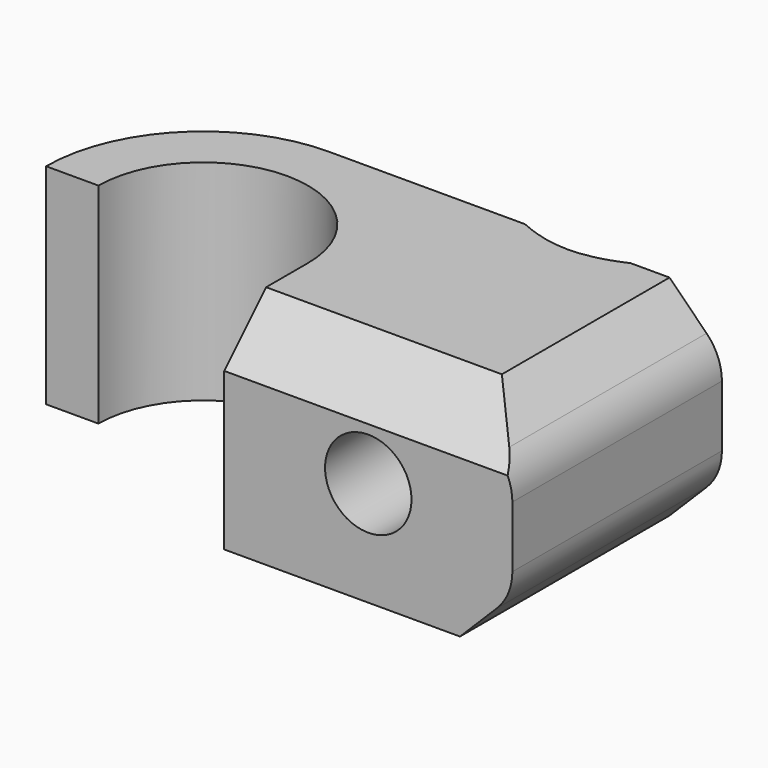
from build123d import *

# Parameters (mm, degrees)
F1_DEPTH       = 4
F3_D           = 3.3
F3_CSINK_D     = 8.96
F3_CSINK_ANGLE = 90
F4_SIZE        = 2
F5_R           = 2
F6_SIZE        = 2


with BuildPart() as f1:
    # F0 (on Top) → F1 (new body, symmetric)
    with BuildSketch(Plane.XY):
        with BuildLine():
            ThreePointArc((-4, 0), (0, 4), (4, 0))
            Line((4, 0), (4, -4))
            Line((4, -4), (15, -4))
            Line((15, -4), (15, 6))
            Line((15, 6), (0, 6))
            ThreePointArc((0, 6), (-4.2426406871, 4.2426406871), (-6, 0))
            Line((-6, 0), (-4, 0))
        make_face()
    extrude(amount=F1_DEPTH, both=True)

    # F3 (through all)
    with Locations(Plane(origin=(0, 6, 0), x_dir=(-1, 0, 0), z_dir=(0, 1, 0))):
        with Locations((-9.5, 0)):
            CounterSinkHole(F3_D / 2, F3_CSINK_D / 2, counter_sink_angle=F3_CSINK_ANGLE)

    # F4
    f4_edges = [f1.edges().sort_by_distance(p)[0] for p in [
        (15, 1, -4),
        (15, 1, 4),
    ]]
    chamfer(f4_edges, length=F4_SIZE)

    # F5
    f5_edges = [f1.edges().sort_by_distance(p)[0] for p in [
        (15, 1, 2),
        (15, 1, -2),
    ]]
    fillet(f5_edges, radius=F5_R)

    # F6
    f6_edges = [f1.edges().sort_by_distance(p)[0] for p in [
        (8.5, -4, 4),
    ]]
    chamfer(f6_edges, length=F6_SIZE)


solid = f1.part
